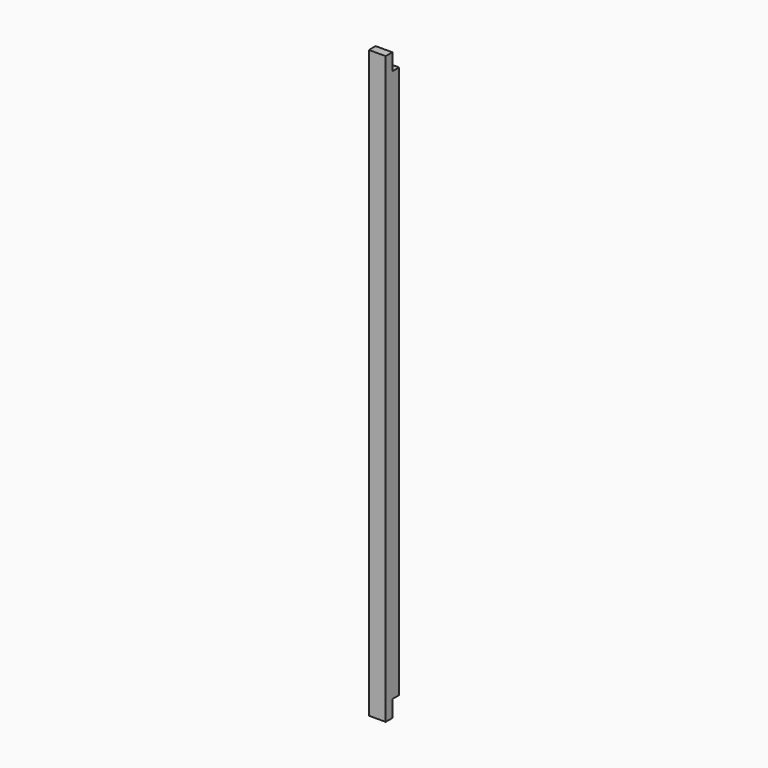
from build123d import *

# Parameters (mm, degrees)
F1_DEPTH = 10
F2_R     = 1.9
F3_DEPTH = 4.5


with BuildPart() as f1:
    # F0 (on Right) → F1 (new body)
    with BuildSketch(Plane.YZ):
        Polygon((-10, 0), (0, 0), (0, 165), (-5, 165), (-5, 175), (-10, 175), align=None)
    extrude(amount=F1_DEPTH)

    # F2 (on face) → F3 (cut)
    with BuildSketch(Plane(origin=(0, -5, 0), x_dir=(-1, 0, 0), z_dir=(0, 1, 0))):
        with Locations((-5, 170)):
            Circle(F2_R)
    extrude(amount=-F3_DEPTH, mode=Mode.SUBTRACT)

    # F4: F1 across plane


with BuildPart() as f1_1:
    add(f1.part)
    add(f1.part.mirror(Plane.XY))


solid = f1_1.part
